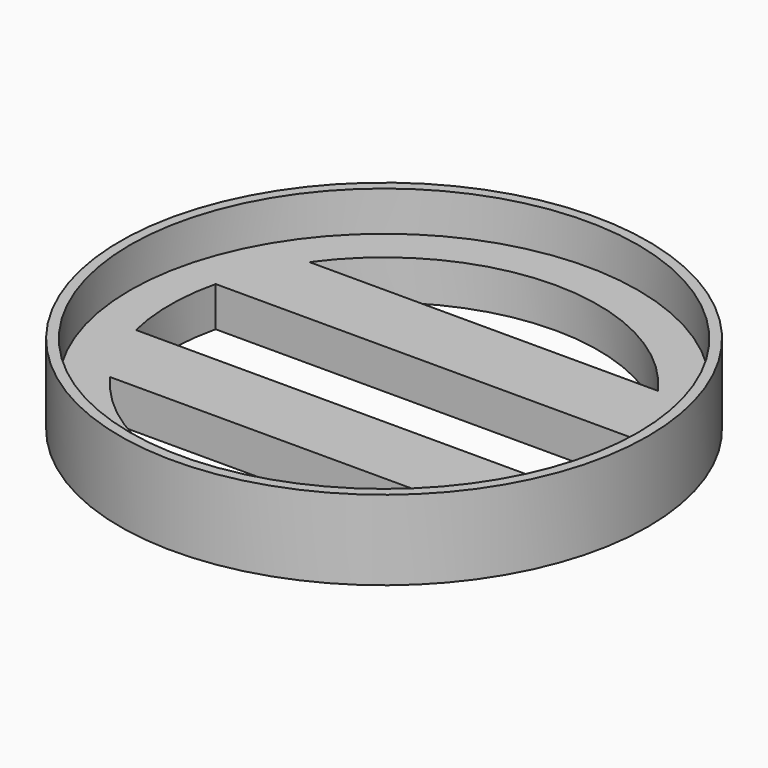
from build123d import *

# Parameters (mm, degrees)
F0_R     = 51
F1_DEPTH = 8
F0_R_2   = 53
F2_DEPTH = 16


with BuildPart() as f1:
    # F0 (on Top) → F1 (new body)
    with BuildSketch(Plane.XY):
        Circle(F0_R)
        with BuildLine():
            ThreePointArc((41.821047, 10), (42.704245, 5.034628), (43, 0))
            ThreePointArc((43, 0), (42.704245, -5.034628), (41.821047, -10))
            ThreePointArc((41.821047, -10), (39.128884, -17.830604), (34.985711, -25))
            ThreePointArc((34.985711, -25), (0, -43), (-34.985711, -25))
            ThreePointArc((-34.985711, -25), (-39.128884, -17.830604), (-41.821047, -10))
            ThreePointArc((-41.821047, -10), (-43, 0), (-41.821047, 10))
            ThreePointArc((-41.821047, 10), (-39.128884, 17.830604), (-34.985711, 25))
            ThreePointArc((-34.985711, 25), (0, 43), (34.985711, 25))
            ThreePointArc((34.985711, 25), (39.128884, 17.830604), (41.821047, 10))
        make_face(mode=Mode.SUBTRACT)
        with BuildLine():
            Line((-41.821047, 10), (41.821047, 10))
            ThreePointArc((41.821047, 10), (39.128884, 17.830604), (34.985711, 25))
            Line((34.985711, 25), (-34.985711, 25))
            ThreePointArc((-34.985711, 25), (-39.128884, 17.830604), (-41.821047, 10))
        make_face()
        with BuildLine():
            ThreePointArc((34.985711, -25), (39.128884, -17.830604), (41.821047, -10))
            Line((41.821047, -10), (-41.821047, -10))
            ThreePointArc((-41.821047, -10), (-39.128884, -17.830604), (-34.985711, -25))
            Line((-34.985711, -25), (34.985711, -25))
        make_face()
    extrude(amount=F1_DEPTH)

    # F0 (on Top) → F2 (join)
    with BuildSketch(Plane.XY):
        Circle(F0_R_2)
        Circle(F0_R, mode=Mode.SUBTRACT)
    extrude(amount=F2_DEPTH)


solid = f1.part
